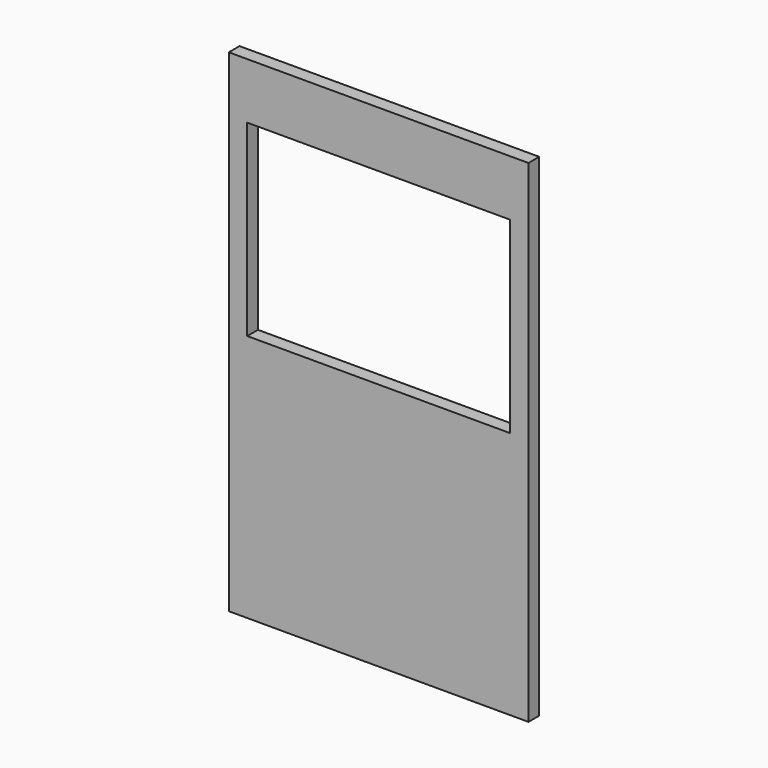
from build123d import *

# Parameters (mm, degrees)
F0_W     = 268
F0_H     = 440
F0_W_2   = 255
F0_H_2   = 188
F0_W_3   = 235
F0_H_3   = 168
F1_DEPTH = 12


with BuildPart() as f1:
    # F0 (on Front) → F1 (new body)
    with BuildSketch(Plane.XZ):
        Rectangle(F0_W, F0_H)
        with Locations((0, 86)):
            Rectangle(F0_W_2, F0_H_2, mode=Mode.SUBTRACT)
        with Locations((0, 86)):
            Rectangle(F0_W_2, F0_H_2)
        with Locations((0, 86)):
            Rectangle(F0_W_3, F0_H_3, mode=Mode.SUBTRACT)
    extrude(amount=F1_DEPTH)


solid = f1.part
